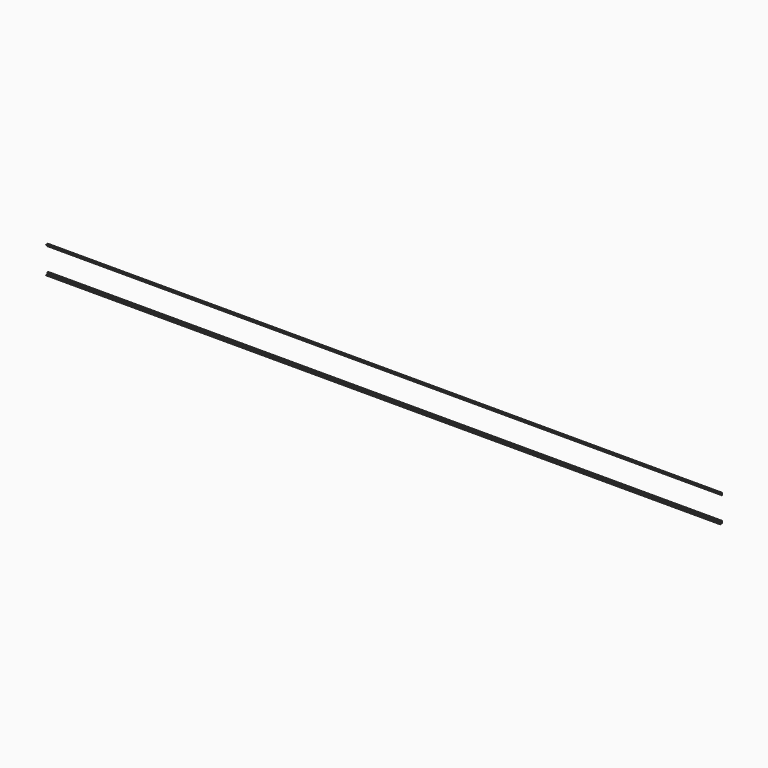
from build123d import *

# Parameters (mm, degrees)
EXTRUDE017_DEPTH = 15000
EXTRUDE018_DEPTH = 15000


with BuildPart() as extrude017:
    # AngleSteel005 → Extrude017 (new body)
    with BuildSketch(Plane(origin=(0, 43.196342, 28.796342), x_dir=(0, 1, 0), z_dir=(-1, 0, 0))):
        with BuildLine():
            Line((-14.396342, 14.396342), (-14.396342, -35.603658))
            Line((-14.396342, -35.603658), (-12.896342, -35.603658))
            ThreePointArc((-12.896342, -35.603658), (-9.714361, -34.285639), (-8.396342, -31.103658))
            Line((-8.396342, -31.103658), (-8.396342, 1.896342))
            ThreePointArc((-8.396342, 1.896342), (-6.492536, 6.492536), (-1.896342, 8.396342))
            Line((-1.896342, 8.396342), (31.103658, 8.396342))
            ThreePointArc((31.103658, 8.396342), (34.285639, 9.714361), (35.603658, 12.896342))
            Line((35.603658, 12.896342), (35.603658, 14.396342))
            Line((35.603658, 14.396342), (-14.396342, 14.396342))
        make_face()
    extrude(amount=-EXTRUDE017_DEPTH)


with BuildPart() as fusion001:
    # Mirror011 → Extrude018 (new body)
    with BuildSketch(Plane(origin=(0, 43.196342, 599.996342), x_dir=(0, -1, 0), z_dir=(1, 0, 0))):
        with BuildLine():
            Line((14.396342, -14.396342), (14.396342, 35.603658))
            Line((14.396342, 35.603658), (12.896342, 35.603658))
            ThreePointArc((12.896342, 35.603658), (9.714361, 34.285639), (8.396342, 31.103658))
            Line((8.396342, 31.103658), (8.396342, -1.896342))
            ThreePointArc((8.396342, -1.896342), (6.492536, -6.492536), (1.896342, -8.396342))
            Line((1.896342, -8.396342), (-31.103658, -8.396342))
            ThreePointArc((-31.103658, -8.396342), (-34.285639, -9.714361), (-35.603658, -12.896342))
            Line((-35.603658, -12.896342), (-35.603658, -14.396342))
            Line((-35.603658, -14.396342), (14.396342, -14.396342))
        make_face()
    extrude(amount=EXTRUDE018_DEPTH)

    # Fusion001: union Extrude017
    add(extrude017.part)


with BuildPart() as fusion_mirrored:
    # Mirror001: instance of Fusion001
    add(fusion001.part.mirror(Plane(origin=(0, 28.796342, 514.396342), x_dir=(-1, 0, 0), z_dir=(0, -1, 0))))


with BuildPart() as fusion_mirrored_1:
    # Mirror001 placement: moved
    add(fusion_mirrored.part.moved(Location((0, -6, 0))))


solid = fusion_mirrored_1.part
